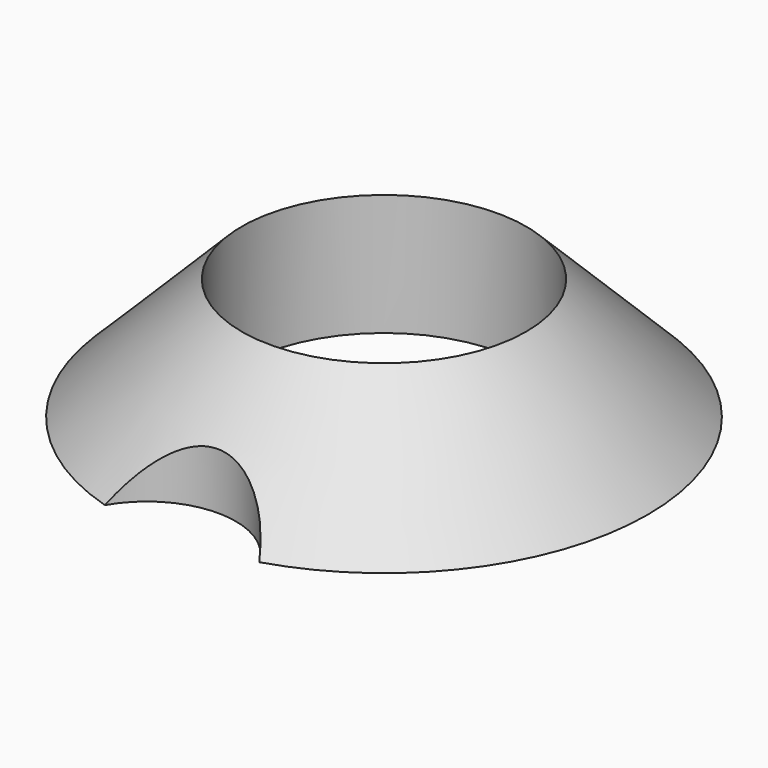
from build123d import *

# Parameters (mm, degrees)
SKETCH001_R        = 1.5
POCKET_DEPTH       = 25.505705
POCKET_DEPTH_BACK  = 27.555705
POLARPATTERN_COUNT = 2


with BuildPart() as part:
    # Sketch → Revolution (revolve)
    with BuildSketch(Plane.XZ):
        Polygon((2.4, 0), (4.45, 0), (2.4, 2.05), align=None)
    revolve(axis=Axis((0, 0, 0), (0, 0, 1)))

    # Sketch001 → Pocket (cut, two sides)
    with BuildSketch(Plane.XY) as pocket_sk:
        with Locations((0, 5)):
            Circle(SKETCH001_R)
    pocket = extrude(amount=-POCKET_DEPTH, mode=Mode.SUBTRACT) + extrude(pocket_sk.sketch, amount=POCKET_DEPTH_BACK, mode=Mode.SUBTRACT)

    # PolarPattern: Pocket ×2 about axis
    polarpattern_axis = Axis((0, 0, 0), (0, 0, 1))
    for i in range(1, POLARPATTERN_COUNT):
        add(pocket.rotate(polarpattern_axis, i * 360 / POLARPATTERN_COUNT), mode=Mode.SUBTRACT)


solid = part.part
